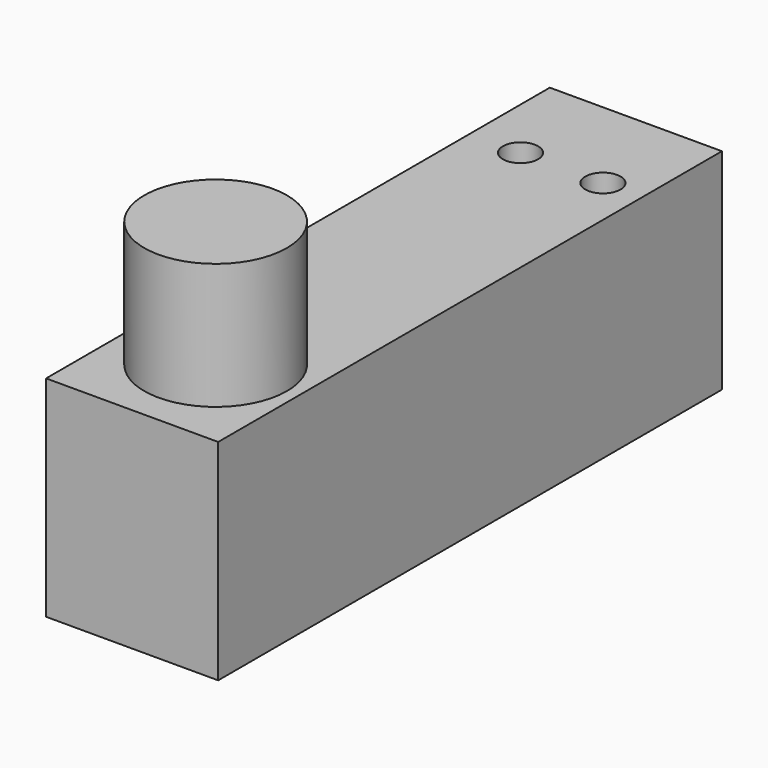
from build123d import *

# Parameters (mm, degrees)
F0_W     = 20.5
F0_H     = 75
F1_DEPTH = 25
F2_R     = 8.5
F3_DEPTH = 15
F5_D     = 4.2


with BuildPart() as f1:
    # F0 (on Top) → F1 (new body)
    with BuildSketch(Plane.XY):
        with Locations((-0.3433860838, 14.475764136)):
            Rectangle(F0_W, F0_H)
    extrude(amount=F1_DEPTH)

    # F2 (on face) → F3 (join)
    with BuildSketch(Plane.XY.offset(25)):
        with Locations((0, -11.024235864)):
            Circle(F2_R)
    extrude(amount=F3_DEPTH)

    # F5 (through all)
    with Locations(Plane.XY.offset(25)):
        with Locations((-4.5289483146, 40.0326289237), (5.268279344, 40.0625547821)):
            Hole(F5_D / 2)


solid = f1.part
